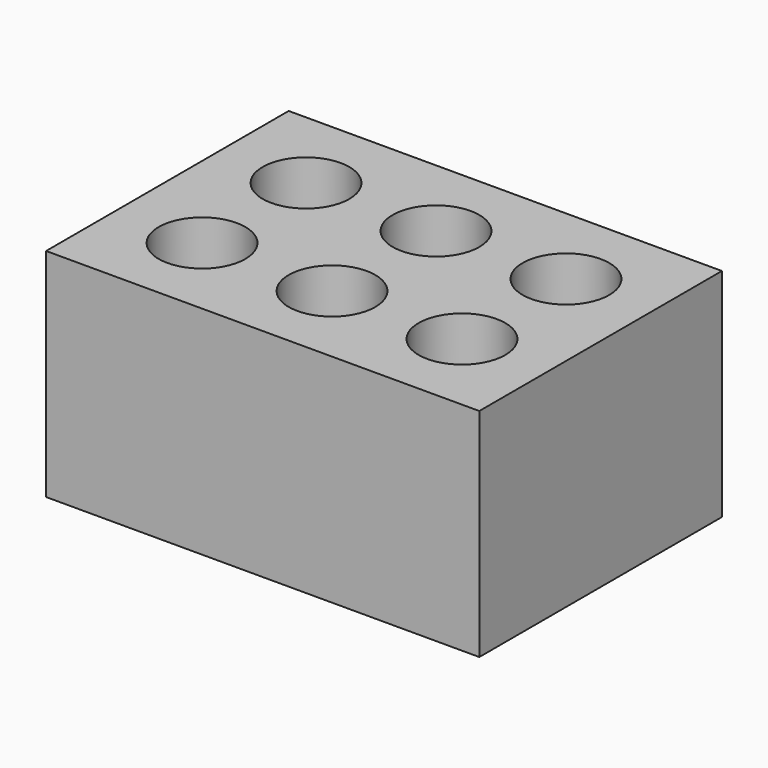
from build123d import *

# Parameters (mm, degrees)
CYLINDER005_R     = 2
CYLINDER005_DEPTH = 10
CYLINDER004_R     = 2
CYLINDER004_DEPTH = 10
CYLINDER003_R     = 2
CYLINDER003_DEPTH = 10
CYLINDER002_R     = 2
CYLINDER002_DEPTH = 10
CYLINDER001_R     = 2
CYLINDER001_DEPTH = 10
CYLINDER_R        = 2
CYLINDER_DEPTH    = 10
BOX_W             = 20
BOX_H             = 14
BOX_DEPTH         = 10


with BuildPart() as cilindro005:
    # Cylinder005 → Cylinder005 (new body)
    with BuildSketch(Plane(origin=(16, 10, 0), x_dir=(1, 0, 0), z_dir=(0, 0, 1))):
        Circle(CYLINDER005_R)
    extrude(amount=CYLINDER005_DEPTH)


with BuildPart() as cilindro004:
    # Cylinder004 → Cylinder004 (new body)
    with BuildSketch(Plane(origin=(16, 4, 0), x_dir=(1, 0, 0), z_dir=(0, 0, 1))):
        Circle(CYLINDER004_R)
    extrude(amount=CYLINDER004_DEPTH)


with BuildPart() as cilindro003:
    # Cylinder003 → Cylinder003 (new body)
    with BuildSketch(Plane(origin=(10, 10, 0), x_dir=(1, 0, 0), z_dir=(0, 0, 1))):
        Circle(CYLINDER003_R)
    extrude(amount=CYLINDER003_DEPTH)


with BuildPart() as cilindro002:
    # Cylinder002 → Cylinder002 (new body)
    with BuildSketch(Plane(origin=(10, 4, 0), x_dir=(1, 0, 0), z_dir=(0, 0, 1))):
        Circle(CYLINDER002_R)
    extrude(amount=CYLINDER002_DEPTH)


with BuildPart() as cilindro001:
    # Cylinder001 → Cylinder001 (new body)
    with BuildSketch(Plane(origin=(4, 10, 0), x_dir=(1, 0, 0), z_dir=(0, 0, 1))):
        Circle(CYLINDER001_R)
    extrude(amount=CYLINDER001_DEPTH)


with BuildPart() as cilindro:
    # Cylinder → Cylinder (new body)
    with BuildSketch(Plane(origin=(4, 4, 0), x_dir=(1, 0, 0), z_dir=(0, 0, 1))):
        Circle(CYLINDER_R)
    extrude(amount=CYLINDER_DEPTH)


with BuildPart() as cut005:
    # Box → Box (new body)
    with BuildSketch(Plane.XY):
        with Locations((10, 7)):
            Rectangle(BOX_W, BOX_H)
    extrude(amount=BOX_DEPTH)

    # Cut: cut Cilindro
    add(cilindro.part, mode=Mode.SUBTRACT)

    # Cut001: cut Cilindro001
    add(cilindro001.part, mode=Mode.SUBTRACT)

    # Cut002: cut Cilindro002
    add(cilindro002.part, mode=Mode.SUBTRACT)

    # Cut003: cut Cilindro003
    add(cilindro003.part, mode=Mode.SUBTRACT)

    # Cut004: cut Cilindro004
    add(cilindro004.part, mode=Mode.SUBTRACT)

    # Cut005: cut Cilindro005
    add(cilindro005.part, mode=Mode.SUBTRACT)


solid = cut005.part
